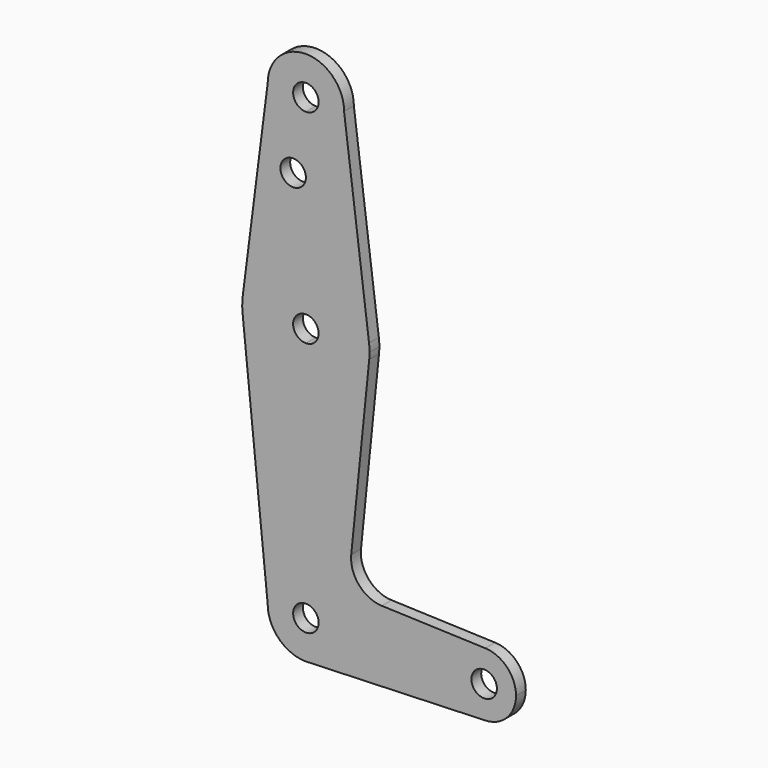
from build123d import *

# Parameters (mm, degrees)
F0_R     = 3.175
F1_DEPTH = 3.048


with BuildPart() as f1:
    # F0 (on Front) → F1 (new body)
    with BuildSketch(Plane.XZ):
        with BuildLine():
            ThreePointArc((3.175, 0), (-2.2450640303, -2.2450640303), (0, 3.175))
            Line((0, 3.175), (0, 9.525))
            ThreePointArc((0, 9.525), (-6.7351920908, 6.7351920908), (-9.525, 0))
            ThreePointArc((-9.525, 0), (-6.7351920908, -6.7351920908), (0, -9.525))
            Line((0, -9.525), (0.6773435479, -9.500885786))
            ThreePointArc((0.6773435479, -9.500885786), (6.9705567315, -6.4912990883), (9.525, 0))
            Line((9.525, 0), (3.175, 0))
        make_face()
        with BuildLine():
            ThreePointArc((-9.525, 0), (-6.7351920908, 6.7351920908), (0, 9.525))
            Line((0, 9.525), (0, 47.625))
            ThreePointArc((0, 47.625), (-10.644756084, 51.722700101), (-15.7942028036, 61.9003804205))
            Line((-15.7942028036, 61.9003804205), (-9.525, 0))
        make_face()
        with BuildLine():
            Line((0, 47.625), (0, 9.525))
            ThreePointArc((0, 9.525), (6.7351920908, 6.7351920908), (9.525, 0))
            Line((9.525, 0), (36.5125, 0))
            ThreePointArc((36.5125, 0), (38.9380895153, 5.7116327839), (44.7324052746, 7.9324746146))
            Line((44.7324052746, 7.9324746146), (18.9341027877, 8.850924033))
            ThreePointArc((18.9341027877, 8.850924033), (13.2249738114, 11.5709798305), (11.3072231466, 17.5971800924))
            Line((11.3072231466, 17.5971800924), (15.7942028036, 61.9003804205))
            ThreePointArc((15.7942028036, 61.9003804205), (10.644756084, 51.722700101), (0, 47.625))
        make_face()
        with BuildLine():
            Line((36.5125, 0), (9.525, 0))
            ThreePointArc((9.525, 0), (6.9705567315, -6.4912990883), (0.6773435479, -9.500885786))
            Line((0.6773435479, -9.500885786), (44.7324052746, -7.9324746146))
            ThreePointArc((44.7324052746, -7.9324746146), (38.9380895153, -5.7116327839), (36.5125, 0))
        make_face()
        with BuildLine():
            ThreePointArc((-15.7942028036, 61.9003804205), (-10.644756084, 51.722700101), (0, 47.625))
            Line((0, 47.625), (0, 60.325))
            ThreePointArc((0, 60.325), (-3.175, 63.5), (0, 66.675))
            Line((0, 66.675), (0, 79.375))
            ThreePointArc((0, 79.375), (-10.4912828548, 75.4142187767), (-15.7474569047, 65.5082893304))
            ThreePointArc((-15.7474569047, 65.5082893304), (-15.873667691, 63.7056672947), (-15.7942028036, 61.9003804205))
        make_face()
        with BuildLine():
            Line((0, 60.325), (0, 47.625))
            ThreePointArc((0, 47.625), (10.644756084, 51.722700101), (15.7942028036, 61.9003804205))
            ThreePointArc((15.7942028036, 61.9003804205), (15.8547878338, 62.6991705884), (15.875, 63.5))
            ThreePointArc((15.875, 63.5), (15.8430821396, 64.5061676396), (15.7474569047, 65.5082893304))
            ThreePointArc((15.7474569047, 65.5082893304), (10.4912828548, 75.4142187767), (0, 79.375))
            Line((0, 79.375), (0, 66.675))
            ThreePointArc((0, 66.675), (2.2450640303, 65.7450640303), (3.175, 63.5))
            ThreePointArc((3.175, 63.5), (2.2450640303, 61.2549359697), (0, 60.325))
        make_face()
        with BuildLine():
            ThreePointArc((44.7324052746, 7.9324746146), (38.9380895153, 5.7116327839), (36.5125, 0))
            ThreePointArc((36.5125, 0), (38.9380895153, -5.7116327839), (44.7324052746, -7.9324746146))
            ThreePointArc((44.7324052746, -7.9324746146), (50.1616327839, -5.5119104847), (52.3875, 0))
            ThreePointArc((52.3875, 0), (50.1616327839, 5.5119104847), (44.7324052746, 7.9324746146))
        make_face()
        with BuildLine():
            ThreePointArc((47.625, 0), (44.45, -3.175), (41.275, 0))
            ThreePointArc((41.275, 0), (44.45, 3.175), (47.625, 0))
        make_face(mode=Mode.SUBTRACT)
        with BuildLine():
            ThreePointArc((0, -9.525), (0.3388863295, -9.5189695375), (0.6773435479, -9.500885786))
            Line((0.6773435479, -9.500885786), (0, -9.525))
        make_face()
        with BuildLine():
            Line((-9.525, 114.3), (-15.7474569047, 65.5082893304))
            ThreePointArc((-15.7474569047, 65.5082893304), (-10.4912828548, 75.4142187767), (0, 79.375))
            Line((0, 79.375), (0, 96.6987230935))
            Line((0, 96.6987230935), (0, 104.775))
            ThreePointArc((0, 104.775), (-6.7351920908, 107.5648079092), (-9.525, 114.3))
        make_face()
        with Locations((-3.175, 96.6987230935)):
            Circle(F0_R, mode=Mode.SUBTRACT)
        with BuildLine():
            Line((0, 96.6987230935), (0, 79.375))
            ThreePointArc((0, 79.375), (10.4912828548, 75.4142187767), (15.7474569047, 65.5082893304))
            Line((15.7474569047, 65.5082893304), (9.525, 114.3))
            ThreePointArc((9.525, 114.3), (6.7351920908, 107.5648079092), (0, 104.775))
            Line((0, 104.775), (0, 96.6987230935))
        make_face()
        with BuildLine():
            ThreePointArc((9.525, 114.3), (0, 123.825), (-9.525, 114.3))
            ThreePointArc((-9.525, 114.3), (-6.7351920908, 107.5648079092), (0, 104.775))
            ThreePointArc((0, 104.775), (6.7351920908, 107.5648079092), (9.525, 114.3))
        make_face()
        with BuildLine():
            ThreePointArc((3.175, 114.3), (2.2450640303, 112.0549359697), (0, 111.125))
            ThreePointArc((0, 111.125), (-2.2450640303, 116.5450640303), (3.175, 114.3))
        make_face(mode=Mode.SUBTRACT)
        with BuildLine():
            Line((0, 9.525), (0, 3.175))
            ThreePointArc((0, 3.175), (2.2450640303, 2.2450640303), (3.175, 0))
            Line((3.175, 0), (9.525, 0))
            ThreePointArc((9.525, 0), (6.7351920908, 6.7351920908), (0, 9.525))
        make_face()
    extrude(amount=F1_DEPTH)


solid = f1.part
